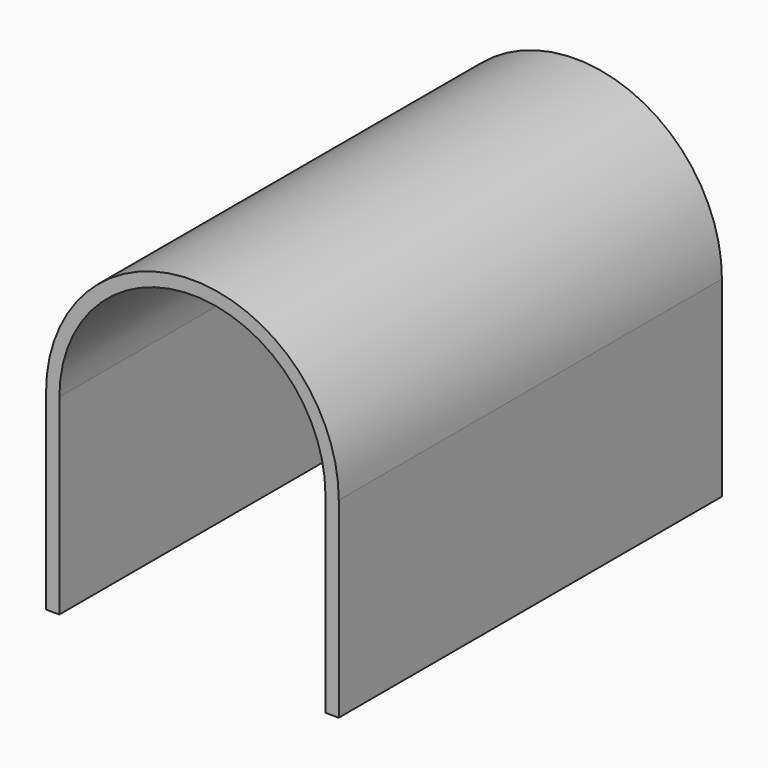
from build123d import *

# Parameters (mm, degrees)
F1_DEPTH = 90
F2_T     = -2.5
F4_DEPTH = 90.001


with BuildPart() as f1:
    # F0 (on Front) → F1 (new body)
    with BuildSketch(Plane.XZ):
        with BuildLine():
            ThreePointArc((-27.5, 0), (0, -27.5), (27.5, 0))
            ThreePointArc((27.5, 0), (0, 27.5), (-27.5, 0))
        make_face()
        with BuildLine():
            Line((27.5, -36), (27.5, 0))
            ThreePointArc((27.5, 0), (0, -27.5), (-27.5, 0))
            Line((-27.5, 0), (-27.5, -36))
            Line((-27.5, -36), (27.5, -36))
        make_face()
    extrude(amount=-F1_DEPTH)

    # F2
    f2_openings = [f1.faces().sort_by_distance(p)[0] for p in [
        (0, 0, -6.873738),
        (0, 45, -36),
    ]]
    offset(amount=F2_T, openings=f2_openings)

    # F3 (on face) → F4 (cut, through all)
    with BuildSketch(Plane(origin=(0, 90, 0), x_dir=(-1, 0, 0), z_dir=(0, 1, 0))):
        with BuildLine():
            ThreePointArc((5, -16), (0, -11), (-5, -16))
            Line((-5, -16), (-5, -36))
            Line((-5, -36), (5, -36))
            Line((5, -36), (5, -16))
        make_face()
    extrude(amount=-F4_DEPTH, mode=Mode.SUBTRACT)


solid = f1.part
